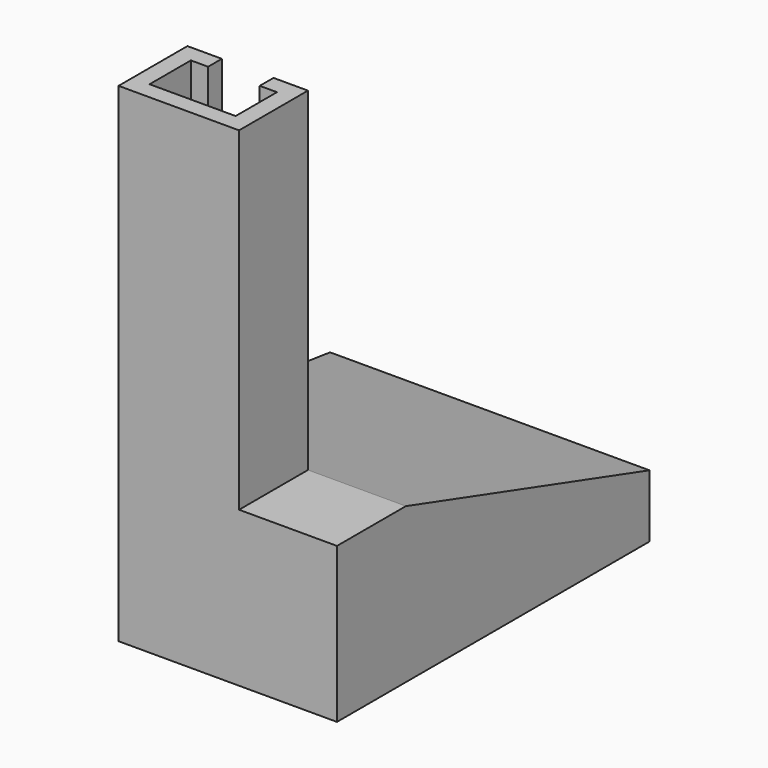
from build123d import *

# Parameters (mm, degrees)
F1_DEPTH  = 95
F2_W      = 35
F2_H      = 25
F3_DEPTH  = 2
F4_W      = 92.7402563393
F4_H      = 113.4333282709
F5_DEPTH  = 45
F7_DEPTH  = 92.7402563393
F10_DEPTH = 47.8


with BuildPart() as f1:
    # F0 (on Top) → F1 (new body)
    with BuildSketch(Plane.XY):
        Polygon((-21.8103982317, -11.2208545208), (13.1896017683, -11.2208545208), (13.1896017683, 13.7791454792), (3.1896017683, 13.7791454792), (3.1896017683, 8.7791454792), (8.1896017683, 8.7791454792), (8.1896017683, -6.2208545208), (-16.8103982317, -6.2208545208), (-16.8103982317, 8.7791454792), (-11.8103982317, 8.7791454792), (-11.8103982317, 13.7791454792), (-21.8103982317, 13.7791454792), align=None)
    extrude(amount=F1_DEPTH)

    # F2 (on face) → F3 (join)
    with BuildSketch(Plane(origin=(0, 0, 0), x_dir=(1, 0, 0), z_dir=(0, 0, -1))):
        with Locations((-4.3103982317, -1.2791454792)):
            Rectangle(F2_W, F2_H)
    extrude(amount=F3_DEPTH)

    # F4 (on face) → F5 (join)
    with BuildSketch(Plane(origin=(0, 0, -2), x_dir=(1, 0, 0), z_dir=(0, 0, -1))):
        with Locations((-4.7465320677, -45.4958096147)):
            Rectangle(F4_W, F4_H)
    extrude(amount=F5_DEPTH)

    # F6 (on face) → F7 (cut, through all)
    with BuildSketch(Plane(origin=(-51.1166602373, 0, 0), x_dir=(0, -1, 0), z_dir=(-1, 0, 0))):
        Polygon((-102.2124737501, -28.7785492837), (-13.7791454792, -2), (-102.2124737501, -2), align=None)
    extrude(amount=-F7_DEPTH, mode=Mode.SUBTRACT)

    # F9 (on 3pt) → F10 (cut)
    with BuildSketch(Plane(origin=(-23.1632746384, -5.9843875324, 0), x_dir=(-0.2501432541, 0.9682088372, 0), z_dir=(0.9682088372, 0.2501432541, 0))):
        Polygon((111.7495080876, 32.3685184121), (-5.4084065206, -2), (-6.0562286526, -47), (111.7495080876, -47), align=None)
    extrude(amount=-F10_DEPTH, mode=Mode.SUBTRACT)


solid = f1.part
